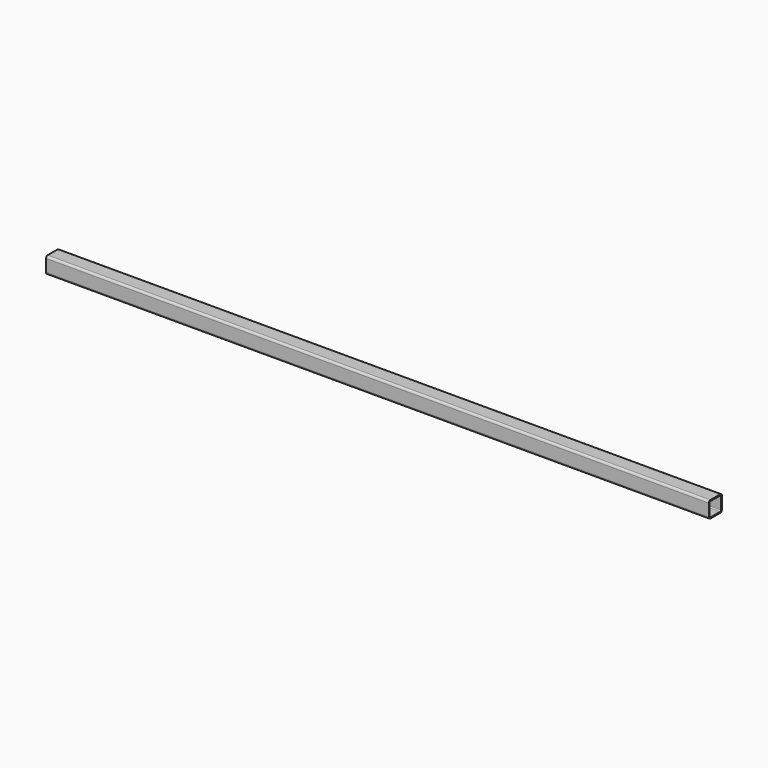
from build123d import *

# Parameters (mm, degrees)
F1_DEPTH = 2057.4


with BuildPart() as f1:
    # F0 (on Right) → F1 (new body)
    with BuildSketch(Plane.YZ):
        with BuildLine():
            ThreePointArc((25.4, 19.05), (23.540128, 23.540128), (19.05, 25.4))
            Line((19.05, 25.4), (-19.05, 25.4))
            ThreePointArc((-19.05, 25.4), (-23.540128, 23.540128), (-25.4, 19.05))
            Line((-25.4, 19.05), (-25.4, -19.05))
            ThreePointArc((-25.4, -19.05), (-23.540128, -23.540128), (-19.05, -25.4))
            Line((-19.05, -25.4), (19.05, -25.4))
            ThreePointArc((19.05, -25.4), (23.540128, -23.540128), (25.4, -19.05))
            Line((25.4, -19.05), (25.4, 19.05))
        make_face()
        with BuildLine():
            ThreePointArc((19.05, 22.225), (21.295064, 21.295064), (22.225, 19.05))
            Line((22.225, 19.05), (22.225, -19.05))
            ThreePointArc((22.225, -19.05), (21.295064, -21.295064), (19.05, -22.225))
            Line((19.05, -22.225), (-19.05, -22.225))
            ThreePointArc((-19.05, -22.225), (-21.295064, -21.295064), (-22.225, -19.05))
            Line((-22.225, -19.05), (-22.225, 19.05))
            ThreePointArc((-22.225, 19.05), (-21.295064, 21.295064), (-19.05, 22.225))
            Line((-19.05, 22.225), (19.05, 22.225))
        make_face(mode=Mode.SUBTRACT)
    extrude(amount=F1_DEPTH)


solid = f1.part
